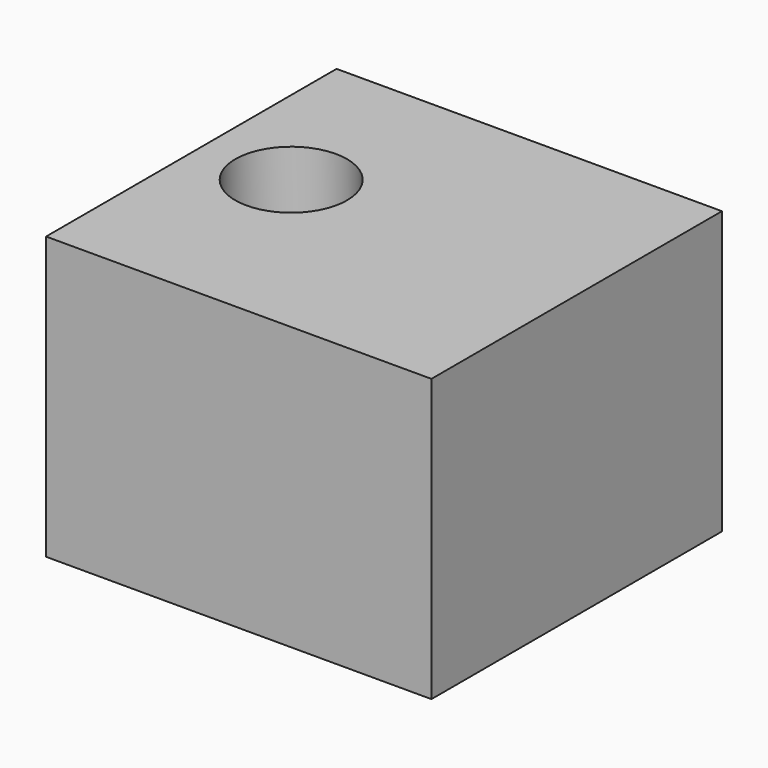
from build123d import *

# Parameters (mm, degrees)
F0_W     = 99.467852
F0_H     = 72.783896
F1_DEPTH = 93.726
F2_R     = 14.41662
F3_DEPTH = 25.4


with BuildPart() as f1:
    # F0 (on Front) → F1 (new body)
    with BuildSketch(Plane.XZ):
        with Locations((-12.687225, 5.47232)):
            Rectangle(F0_W, F0_H)
    extrude(amount=F1_DEPTH)

    # F2 (on face) → F3 (cut)
    with BuildSketch(Plane.XY.offset(41.864268)):
        with Locations((-39.331704, -43.508075)):
            Circle(F2_R)
    extrude(amount=-F3_DEPTH, mode=Mode.SUBTRACT)


with BuildPart() as f1_1:
    # F4: moved
    add(f1.part.moved(Location((13.716, -14.986, 4.064))))


solid = f1_1.part
